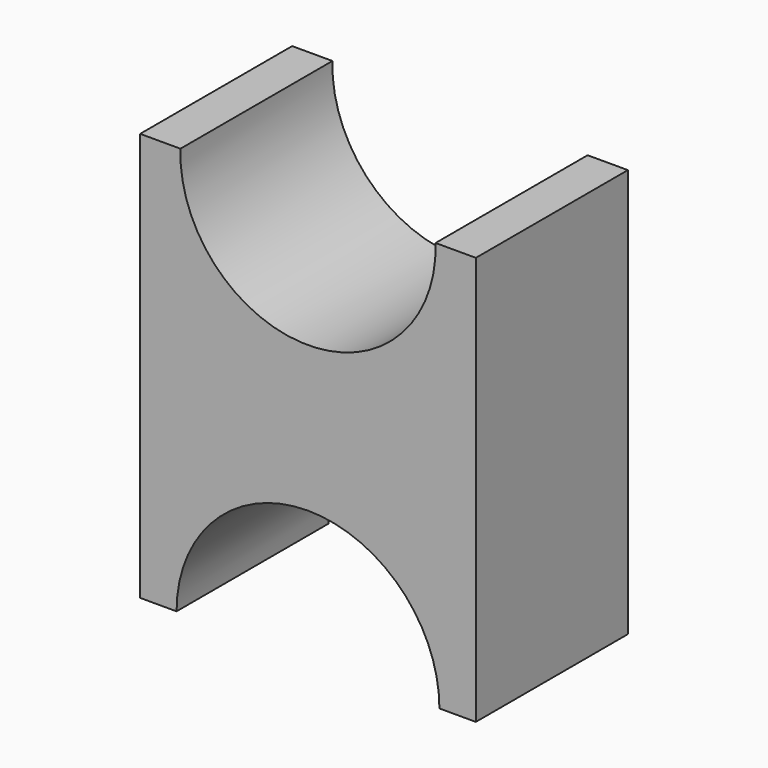
from build123d import *

# Parameters (mm, degrees)
F1_DEPTH = 30


with BuildPart() as f1:
    # F0 (on Front) → F1 (new body)
    with BuildSketch(Plane.XZ):
        with BuildLine():
            Line((26.5, 64.5), (20.141065, 64.5))
            ThreePointArc((20.141065, 64.5), (0, 43.75), (-20.141065, 64.5))
            Line((-20.141065, 64.5), (-26.5, 64.5))
            Line((-26.5, 64.5), (-26.5, 0))
            Line((-26.5, 0), (-20.75, 0))
            ThreePointArc((-20.75, 0), (-14.672466, 14.672466), (0, 20.75))
            ThreePointArc((0, 20.75), (14.672466, 14.672466), (20.75, 0))
            Line((20.75, 0), (26.5, 0))
            Line((26.5, 0), (26.5, 64.5))
        make_face()
    extrude(amount=F1_DEPTH)


solid = f1.part
